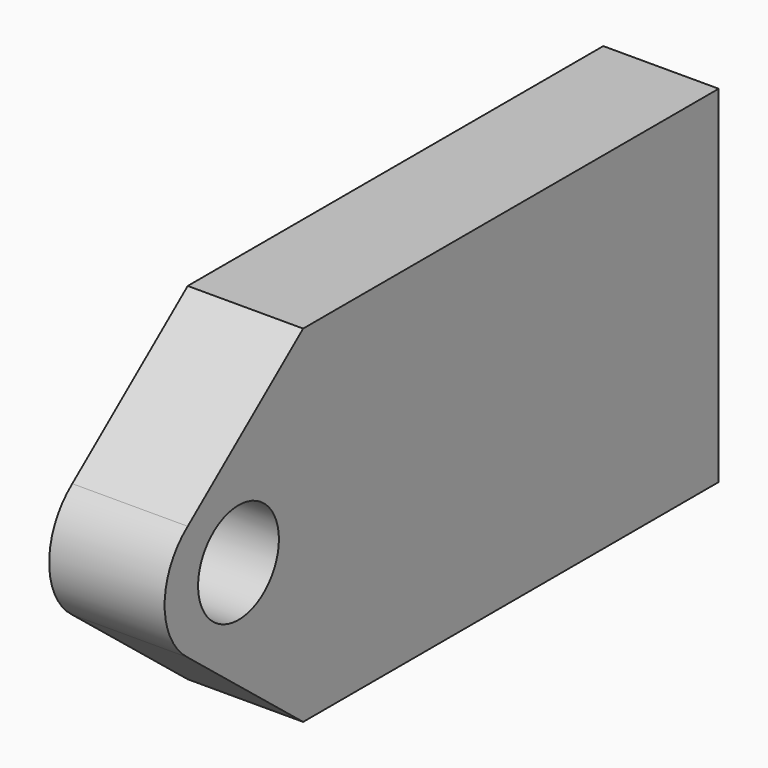
from build123d import *

# Parameters (mm, degrees)
F0_R     = 11.1125
F1_DEPTH = 25.4


with BuildPart() as f1:
    # F0 (on Right) → F1 (new body)
    with BuildSketch(Plane.YZ):
        with BuildLine():
            Line((76.2, 38.1), (-38.1, 38.1))
            Line((-38.1, 38.1), (-69.85, 12.7))
            ThreePointArc((-69.85, 12.7), (-76.2, 0), (-69.85, -12.7))
            Line((-69.85, -12.7), (-38.1, -38.1))
            Line((-38.1, -38.1), (76.2, -38.1))
            Line((76.2, -38.1), (76.2, 38.1))
        make_face()
        with Locations((-55.88, 0)):
            Circle(F0_R, mode=Mode.SUBTRACT)
    extrude(amount=F1_DEPTH)


solid = f1.part
